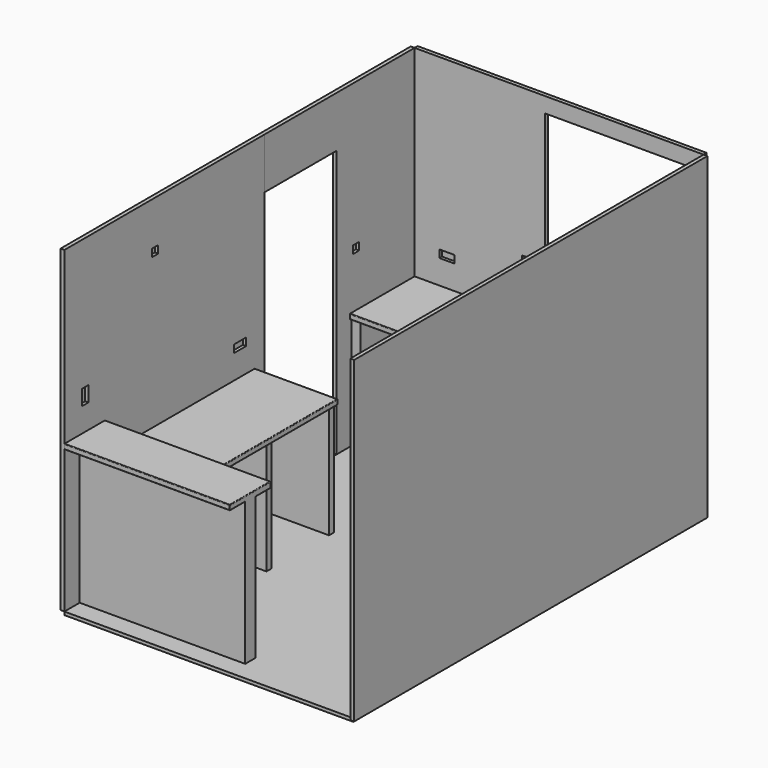
from build123d import *

# Parameters (mm, degrees)
F0_W      = 2270
F0_H      = 30
F1_DEPTH  = 2500
F0_W_2    = 30
F0_H_2    = 3468
F0_H_3    = 765
F0_H_4    = 1963
F2_W      = 2270
F2_H      = 3438
F3_DEPTH  = 25
F4_W      = 2270
F4_H      = 40
F5_DEPTH  = 635
F7_DEPTH  = 1300
F6_W      = 1620
F6_H      = 40
F8_DEPTH  = 650
F9_W      = 1177
F9_H      = 1130
F10_DEPTH = 3498.001
F11_W     = 30
F11_H     = 400
F12_DEPTH = 710
F13_W     = 70
F13_H     = 880
F14_DEPTH = 635
F13_W_2   = 73.1048560888
F13_W_3   = 50
F15_R     = 5
F16_R     = 5
F17_R     = 5
F18_W     = 100
F18_H     = 880
F19_DEPTH = 620
F18_W_2   = 70
F18_W_3   = 50
F18_W_4   = 52
F20_W     = 60
F20_H     = 120
F20_H_2   = 60
F20_W_2   = 80
F20_H_3   = 80
F20_W_3   = 120
F21_DEPTH = 25
F22_W     = 60
F22_H     = 60
F22_W_2   = 120
F22_W_3   = 130
F22_H_2   = 130
F23_DEPTH = 25
F24_DEPTH = 100


with BuildPart() as f1:
    # F0 (on Top) → F1 (new body)
    with BuildSketch(Plane.XY):
        with Locations((998.2948233199, 1741.5534749776)):
            Rectangle(F0_W, F0_H)
    extrude(amount=F1_DEPTH)

    # F9 (on face) → F10 (cut, through all)
    with BuildSketch(Plane(origin=(0, 1756.5534749776, 0), x_dir=(-1, 0, 0), z_dir=(0, 1, 0))):
        with Locations((-1474.7948233199, 1815)):
            Rectangle(F9_W, F9_H)
    extrude(amount=-F10_DEPTH, mode=Mode.SUBTRACT)

    # F22 (on face) → F23 (cut)
    with BuildSketch(Plane.XZ.offset(-1726.5534749776)):
        with Locations((738.2948233199, 1310)):
            Rectangle(F22_W, F22_H)
        with Locations((118.2948233199, 1140)):
            Rectangle(F22_W_2, F22_H)
        with Locations((943.2948233199, 315)):
            Rectangle(F22_W, F22_H)
        with Locations((1498.2948233199, 265)):
            Rectangle(F22_W_3, F22_H_2)
    extrude(amount=-F23_DEPTH, mode=Mode.SUBTRACT)

    # F22 (on face) → F24 (cut)
    with BuildSketch(Plane.XZ.offset(-1726.5534749776)):
        with Locations((1498.2948233199, 265)):
            Rectangle(F22_W_3, F22_H_2)
    extrude(amount=-F24_DEPTH, mode=Mode.SUBTRACT)


with BuildPart() as f1b:
    # F0 (on Top) → F1, piece 2 (new body)
    with BuildSketch(Plane.XY):
        with Locations((2148.2948233199, -7.4465250224)):
            Rectangle(F0_W_2, F0_H_2)
    extrude(amount=F1_DEPTH)


with BuildPart() as f1c:
    # F0 (on Top) → F1, piece 3 (new body)
    with BuildSketch(Plane.XY):
        with Locations((-151.7051766801, 1344.0534749776)):
            Rectangle(F0_W_2, F0_H_3)
    extrude(amount=F1_DEPTH)

    # F11 (on face) → F12 (join)
    with BuildSketch(Plane.XZ.offset(-961.5534749776)):
        with Locations((-151.7051766801, 2300)):
            Rectangle(F11_W, F11_H)
    extrude(amount=F12_DEPTH)


with BuildPart() as f1d:
    # F0 (on Top) → F1, piece 4 (new body)
    with BuildSketch(Plane.XY):
        with Locations((-151.7051766801, -729.9465250224)):
            Rectangle(F0_W_2, F0_H_4)
    extrude(amount=F1_DEPTH)

    # F6 (on face) → F8 (join)
    with BuildSketch(Plane.YZ.offset(-136.7051766801)):
        with Locations((-650.5513811111, 900)):
            Rectangle(F6_W, F6_H)
    extrude(amount=F8_DEPTH)

    # F15
    f15_edges = [f1d.edges().sort_by_distance(p)[0] for p in [
        (188.294823, 159.448619, 920),
        (513.294823, -650.551381, 920),
        (188.294823, 159.448619, 880),
        (513.294823, -650.551381, 880),
    ]]
    fillet(f15_edges, radius=F15_R)


with BuildPart() as f3:
    # F2 (on face) → F3 (new body)
    with BuildSketch(Plane(origin=(0, 0, 0), x_dir=(1, 0, 0), z_dir=(0, 0, -1))):
        with Locations((998.2948233199, -7.5534749776)):
            Rectangle(F2_W, F2_H)
    extrude(amount=F3_DEPTH)


with BuildPart() as f5:
    # F4 (on face) → F5 (new body)
    with BuildSketch(Plane.XZ.offset(-1726.5534749776)):
        with Locations((998.2948233199, 900)):
            Rectangle(F4_W, F4_H)
    extrude(amount=F5_DEPTH)

    # F17
    f17_edges = [f5.edges().sort_by_distance(p)[0] for p in [
        (998.294823, 1091.553475, 920),
        (998.294823, 1091.553475, 880),
    ]]
    fillet(f17_edges, radius=F17_R)


with BuildPart() as f7:
    # F6 (on face) → F7 (new body)
    with BuildSketch(Plane.YZ.offset(-136.7051766801)):
        Polygon((-1461.4465250224, 0), (-1460.689416728, 880), (-1460.4886770248, 1113.3232116699), (-1311.446047813, 1113.3232116699), (-1311.446047813, 1160), (-1511.4465250224, 1160), (-1711.4465250224, 1160), (-1711.4465250224, 1120), (-1561.4465250224, 1120), (-1561.4465250224, 0), align=None)
    extrude(amount=F7_DEPTH)

    # F16
    f16_edges = [f7.edges().sort_by_distance(p)[0] for p in [
        (513.294823, -1711.446525, 1160),
        (513.294823, -1311.446048, 1160),
        (1163.294823, -1511.446286, 1160),
        (513.294823, -1711.446525, 1120),
        (1163.294823, -1636.446525, 1120),
        (1163.294823, -1385.967362, 1113.323212),
        (1163.294823, -1711.446525, 1140),
        (1163.294823, -1311.446048, 1136.661606),
        (513.294823, -1311.446048, 1113.323212),
    ]]
    fillet(f16_edges, radius=F16_R)


with BuildPart() as f14:
    # F13 (on face) → F14 (new body)
    with BuildSketch(Plane.YZ.offset(-136.7051766801)):
        with Locations((-1156.4465250224, 440)):
            Rectangle(F13_W, F13_H)
    extrude(amount=F14_DEPTH)


with BuildPart() as f14b:
    # F13 (on face) → F14, piece 2 (new body)
    with BuildSketch(Plane.YZ.offset(-136.7051766801)):
        with Locations((-1423.9989530668, 440)):
            Rectangle(F13_W_2, F13_H)
    extrude(amount=F14_DEPTH)


with BuildPart() as f14c:
    # F13 (on face) → F14, piece 3 (new body)
    with BuildSketch(Plane.YZ.offset(-136.7051766801)):
        with Locations((-496.4465250224, 440)):
            Rectangle(F13_W_3, F13_H)
    extrude(amount=F14_DEPTH)


with BuildPart() as f14d:
    # F13 (on face) → F14, piece 4 (new body)
    with BuildSketch(Plane.YZ.offset(-136.7051766801)):
        with Locations((117.5534749776, 440)):
            Rectangle(F13_W_3, F13_H)
    extrude(amount=F14_DEPTH)


with BuildPart() as f19:
    # F18 (on face) → F19 (new body)
    with BuildSketch(Plane.XZ.offset(-1726.5534749776)):
        with Locations((2083.2948233199, 440)):
            Rectangle(F18_W, F18_H)
    extrude(amount=F19_DEPTH)


with BuildPart() as f19b:
    # F18 (on face) → F19, piece 2 (new body)
    with BuildSketch(Plane.XZ.offset(-1726.5534749776)):
        with Locations((1398.2948233199, 440)):
            Rectangle(F18_W_2, F18_H)
    extrude(amount=F19_DEPTH)


with BuildPart() as f19c:
    # F18 (on face) → F19, piece 3 (new body)
    with BuildSketch(Plane.XZ.offset(-1726.5534749776)):
        with Locations((738.2948233199, 440)):
            Rectangle(F18_W_3, F18_H)
    extrude(amount=F19_DEPTH)


with BuildPart() as f19d:
    # F18 (on face) → F19, piece 4 (new body)
    with BuildSketch(Plane.XZ.offset(-1726.5534749776)):
        with Locations((-101.7051766801, 440)):
            Rectangle(F18_W_2, F18_H)
    extrude(amount=F19_DEPTH)


with BuildPart() as f19e:
    # F18 (on face) → F19, piece 5 (new body)
    with BuildSketch(Plane.XZ.offset(-1726.5534749776)):
        with Locations((323.2948233199, 440)):
            Rectangle(F18_W_4, F18_H)
    extrude(amount=F19_DEPTH)


with BuildPart() as f21_tool:
    # F20 (on face) → F21 (new body)
    with BuildSketch(Plane.YZ.offset(-136.7051766801)):
        with Locations((-1506.4465250224, 1410)):
            Rectangle(F20_W, F20_H)
        with Locations((-821.4465250224, 2130)):
            Rectangle(F20_W, F20_H_2)
        with Locations((-1271.4465250224, 790)):
            Rectangle(F20_W_2, F20_H_3)
        with Locations((-821.4465250224, 730)):
            Rectangle(F20_W, F20_H_2)
        with Locations((1151.5534749776, 1350)):
            Rectangle(F20_W, F20_H_2)
        with Locations((11.5534749776, 1140)):
            Rectangle(F20_W_3, F20_H_2)
    extrude(amount=-F21_DEPTH)


with BuildPart() as f1c_1:
    add(f1c.part)

    # F21: cut by f21_tool
    add(f21_tool.part, mode=Mode.SUBTRACT)


with BuildPart() as f1d_1:
    add(f1d.part)

    # F21: cut by f21_tool
    add(f21_tool.part, mode=Mode.SUBTRACT)


solid = Compound([f1.part, f1b.part, f3.part, f5.part, f7.part, f14.part, f14b.part, f14c.part, f14d.part, f19.part, f19b.part, f19c.part, f19d.part, f19e.part, f1c_1.part, f1d_1.part])
